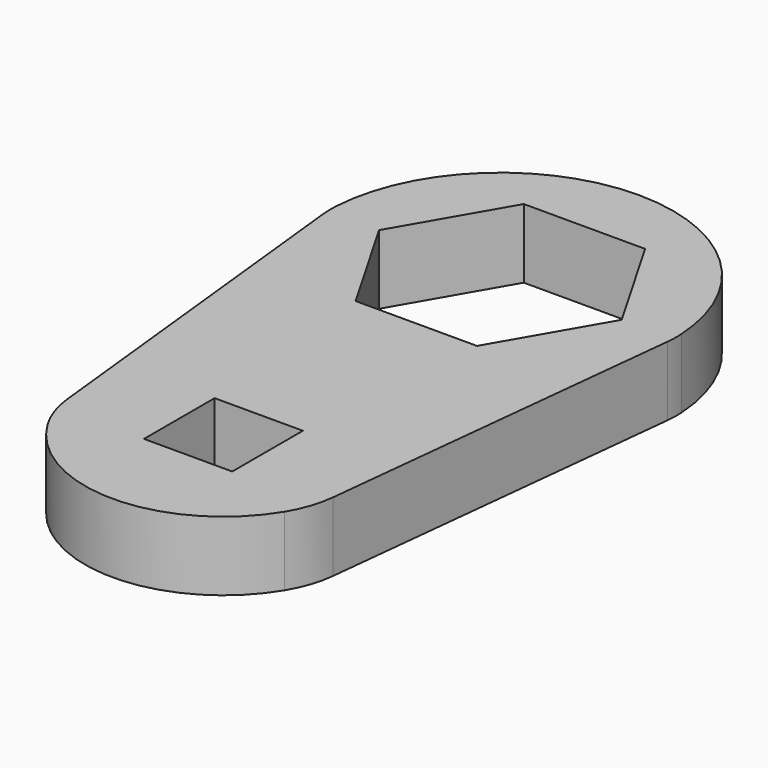
from build123d import *

# Parameters (mm, degrees)
SKETCH_W  = 12.75
SKETCH_H  = 12.75
PAD_DEPTH = 10
FILLET_R  = 15


with BuildPart() as part:
    # Sketch → Pad (new body)
    with BuildSketch(Plane.XY):
        with BuildLine():
            ThreePointArc((25, 0), (0, 25), (-25, 0))
            Line((-25, 0), (-18.956776, -56.375))
            ThreePointArc((-18.956776, -56.375), (0, -70), (18.956776, -56.375))
            Line((18.956776, -56.375), (25, 0))
        make_face()
        Polygon((-17.525, 0), (-8.7625, -15.177095), (8.7625, -15.177095), (17.525, 0), (8.7625, 15.177095), (-8.7625, 15.177095), align=None, mode=Mode.SUBTRACT)
        with Locations((0, -50)):
            Rectangle(SKETCH_W, SKETCH_H, mode=Mode.SUBTRACT)
    extrude(amount=PAD_DEPTH)

    # Fillet
    fillet_edges = [part.edges().sort_by_distance(p)[0] for p in [
        (-25, 0, 5),
        (-18.956776, -56.375, 5),
        (18.956776, -56.375, 5),
        (25, 0, 5),
    ]]
    fillet(fillet_edges, radius=FILLET_R)


solid = part.part
